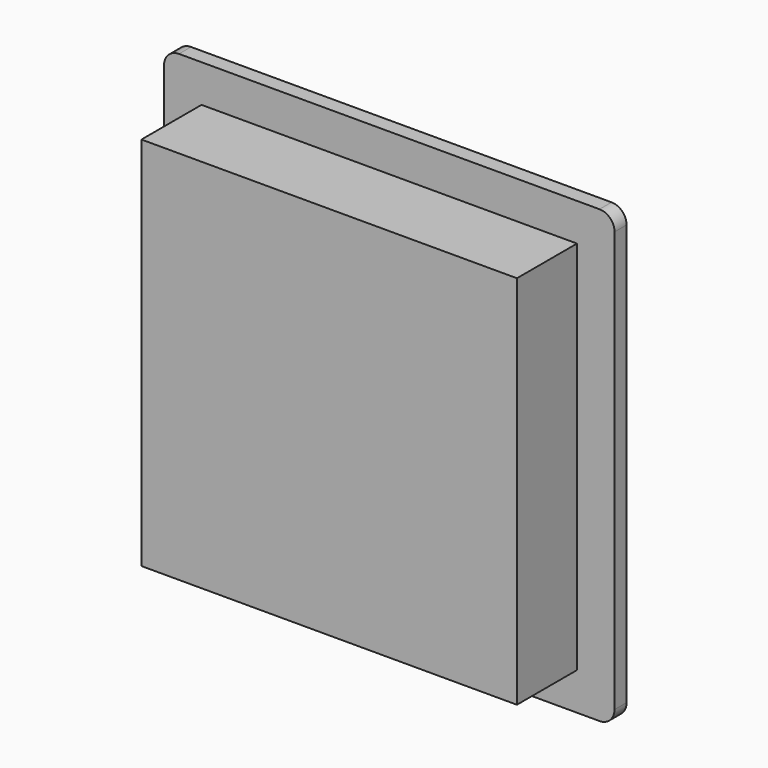
from build123d import *

# Parameters (mm, degrees)
F0_W     = 60
F0_H     = 60
F1_DEPTH = 2
F2_W     = 50
F2_H     = 50
F3_DEPTH = 10
F4_R     = 2


with BuildPart() as f1:
    # F0 (on Front) → F1 (new body)
    with BuildSketch(Plane.XZ):
        Rectangle(F0_W, F0_H)
    extrude(amount=F1_DEPTH)

    # F2 (on face) → F3 (join)
    with BuildSketch(Plane.XZ.offset(2)):
        Rectangle(F2_W, F2_H)
    extrude(amount=F3_DEPTH)

    # F4
    f4_edges = [f1.edges().sort_by_distance(p)[0] for p in [
        (30, -1, -30),
        (30, -1, 30),
        (-30, -1, 30),
        (-30, -1, -30),
    ]]
    fillet(f4_edges, radius=F4_R)


solid = f1.part
